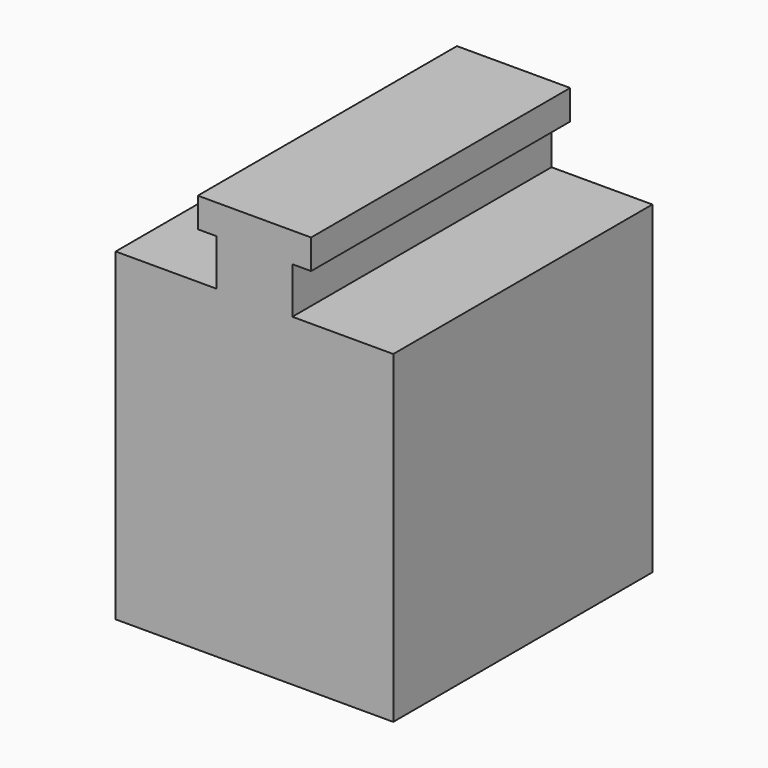
from build123d import *

# Parameters (mm, degrees)
F1_DEPTH = 35


with BuildPart() as f1:
    # F0 (on Front) → F1 (new body)
    with BuildSketch(Plane.XZ):
        Polygon((-6.12, 3.2), (-6.12, 0), (-4.1, 0), (-4.1, -5), (4.1, -5), (4.1, 0), (6.12, 0), (6.12, 3.2), (0, 3.2), align=None)
        Polygon((4.1, -5), (-4.1, -5), (-11.1, -5), (-15, -5), (-15, -40), (15, -40), (15, -5), (11.1, -5), align=None)
    extrude(amount=F1_DEPTH)


solid = f1.part
